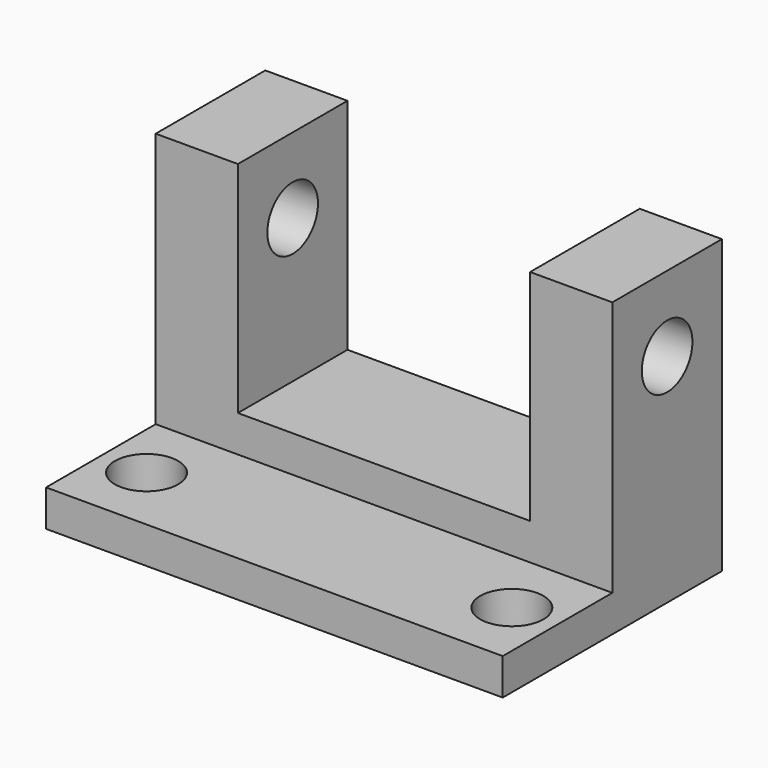
from build123d import *

# Parameters (mm, degrees)
F0_W     = 31.75
F0_H     = 19.05
F1_DEPTH = 20.32
F2_W     = 31.75
F2_H     = 9.525
F3_DEPTH = 17.78
F4_W     = 20.32
F4_H     = 9.525
F5_DEPTH = 15.24
F7_D     = 4.4
F9_D     = 4.4


with BuildPart() as f1:
    # F0 (on Top) → F1 (new body)
    with BuildSketch(Plane.XY):
        with Locations((15.875, 9.525)):
            Rectangle(F0_W, F0_H)
    extrude(amount=F1_DEPTH)

    # F2 (on face) → F3 (cut)
    with BuildSketch(Plane.XY.offset(20.32)):
        with Locations((15.875, 4.7625)):
            Rectangle(F2_W, F2_H)
    extrude(amount=-F3_DEPTH, mode=Mode.SUBTRACT)

    # F4 (on face) → F5 (cut)
    with BuildSketch(Plane.XY.offset(20.32)):
        with Locations((15.875, 14.2875)):
            Rectangle(F4_W, F4_H)
    extrude(amount=-F5_DEPTH, mode=Mode.SUBTRACT)

    # F7 (through all)
    with Locations(Plane.XY.offset(2.54)):
        with Locations((3.175, 4.7625), (28.575, 4.7625)):
            Hole(F7_D / 2)

    # F9 (through all)
    with Locations(Plane.YZ.offset(31.75)):
        with Locations((14.2875, 15.08)):
            Hole(F9_D / 2)


solid = f1.part
